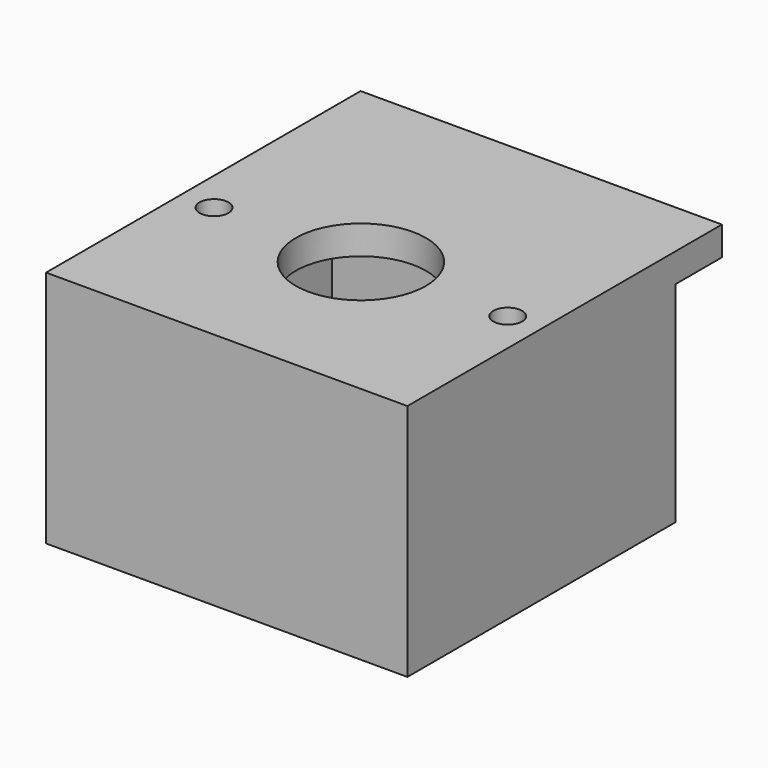
from build123d import *

# Parameters (mm, degrees)
F0_W     = 25
F0_H     = 23.2
F0_R     = 9
F1_DEPTH = 2
F2_DEPTH = 12.5
F4_DEPTH = 4
F5_R     = 1
F5_R_2   = 4.5
F6_DEPTH = 2


with BuildPart() as f1:
    # F0 (on Top) → F1 (new body)
    with BuildSketch(Plane.XY):
        Rectangle(F0_W, F0_H)
        Polygon((10, 10), (10, 0), (10, -10), (0, -10), (-10, -10), (-10, 0), (-10, 10), (0, 10), align=None, mode=Mode.SUBTRACT)
        with BuildLine():
            ThreePointArc((0, -10), (7.0710678119, -7.0710678119), (10, 0))
            ThreePointArc((10, 0), (7.0710678119, 7.0710678119), (0, 10))
            ThreePointArc((0, 10), (-7.0710678119, 7.0710678119), (-10, 0))
            ThreePointArc((-10, 0), (-7.0710678119, -7.0710678119), (0, -10))
        make_face()
        Circle(F0_R, mode=Mode.SUBTRACT)
        with BuildLine():
            Line((-10, -10), (0, -10))
            ThreePointArc((0, -10), (-7.0710678119, -7.0710678119), (-10, 0))
            Line((-10, 0), (-10, -10))
        make_face()
        with BuildLine():
            ThreePointArc((-10, 0), (-7.0710678119, 7.0710678119), (0, 10))
            Line((0, 10), (-10, 10))
            Line((-10, 10), (-10, 0))
        make_face()
        with BuildLine():
            ThreePointArc((0, 10), (7.0710678119, 7.0710678119), (10, 0))
            Line((10, 0), (10, 10))
            Line((10, 10), (0, 10))
        make_face()
        with BuildLine():
            Line((10, -10), (10, 0))
            ThreePointArc((10, 0), (7.0710678119, -7.0710678119), (0, -10))
            Line((0, -10), (10, -10))
        make_face()
    extrude(amount=-F1_DEPTH)

    # F0 (on Top) → F2 (join)
    with BuildSketch(Plane.XY):
        Rectangle(F0_W, F0_H)
        Polygon((10, 10), (10, 0), (10, -10), (0, -10), (-10, -10), (-10, 0), (-10, 10), (0, 10), align=None, mode=Mode.SUBTRACT)
    extrude(amount=F2_DEPTH)

    # F3 (on face) → F4 (cut)
    with BuildSketch(Plane(origin=(0, 11.6, 0), x_dir=(-1, 0, 0), z_dir=(0, 1, 0))):
        with BuildLine():
            ThreePointArc((0, 9.1), (-0.7778174593, 7.2221825407), (1.1, 8))
            ThreePointArc((1.1, 8), (0.7778174593, 8.7778174593), (0, 9.1))
        make_face()
    extrude(amount=-F4_DEPTH, mode=Mode.SUBTRACT)

    # F5 (on face) → F6 (join)
    with BuildSketch(Plane.XY.offset(12.5)):
        Polygon((-12.5, 11.6), (-12.5, -11.6), (12.5, -11.6), (12.5, 15.6), (-12.5, 15.6), align=None)
        with Locations((-10.16, 0)):
            Circle(F5_R, mode=Mode.SUBTRACT)
        Circle(F5_R_2, mode=Mode.SUBTRACT)
        with Locations((10.16, 0)):
            Circle(F5_R, mode=Mode.SUBTRACT)
    extrude(amount=F6_DEPTH)


solid = f1.part
